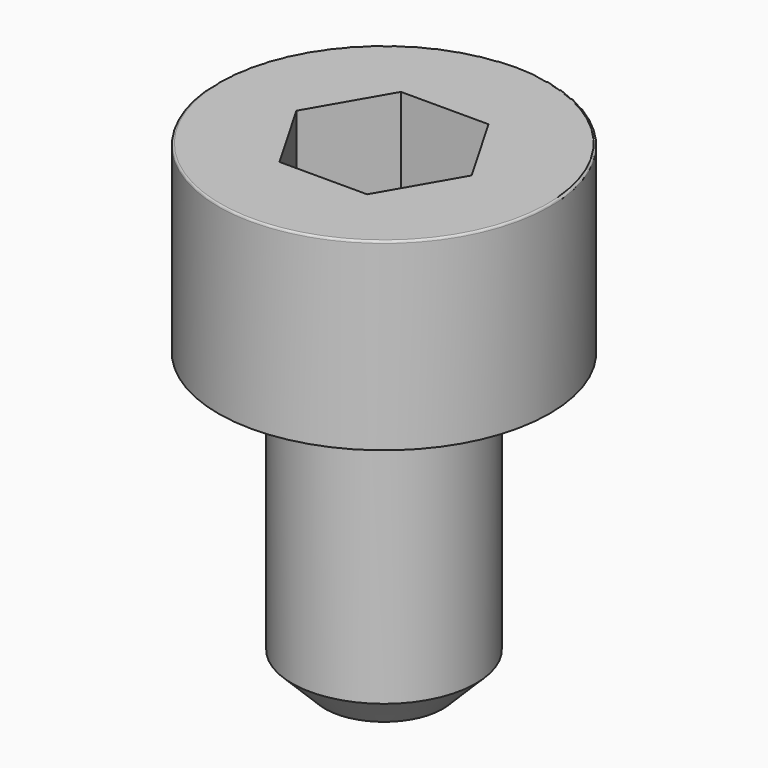
from build123d import *

# Parameters (mm, degrees)
POCKET_DEPTH = 2.06


with BuildPart() as part:
    # Sketch → Revolve (revolve)
    with BuildSketch(Plane.YZ):
        with BuildLine():
            Line((1.249, 0), (2.25, 0))
            Line((2.25, 0), (2.25, 2.47229))
            ThreePointArc((2.25, 2.47229), (2.241884, 2.491884), (2.22229, 2.5))
            Line((2.22229, 2.5), (0, 2.5))
            Line((0, -4), (0, 2.5))
            Line((0.8, -4), (0, -4))
            Line((1.25, -3.55), (0.8, -4))
            Line((1.25, -0.2), (1.25, -3.55))
            Line((1.249, 0), (1.25, -0.2))
        make_face()
    revolve(axis=Axis((0, 0, 0), (0, 0, 1)))

    # Sketch001 → Pocket (cut)
    with BuildSketch(Plane.XY.offset(2.5)):
        Polygon((1.189342, 0), (0.594671, 1.03), (-0.594671, 1.03), (-1.189342, 0), (-0.594671, -1.03), (0.594671, -1.03), align=None)
    extrude(amount=-POCKET_DEPTH, mode=Mode.SUBTRACT)


solid = part.part
